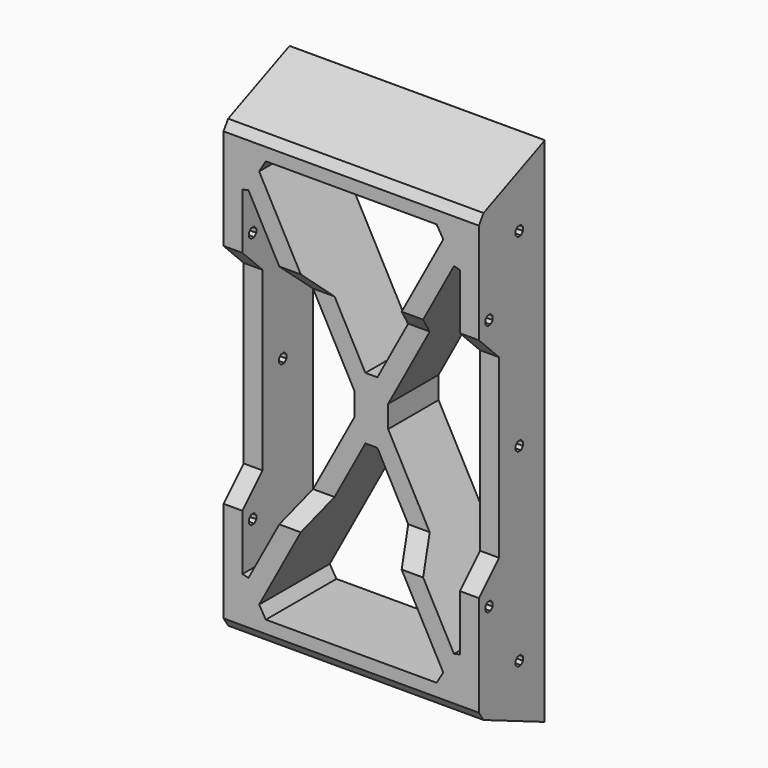
from build123d import *

# Parameters (mm, degrees)
PAD_DEPTH       = 40.5
POCKET_DEPTH    = 14.001
CHAMFER_SIZE    = 2
POCKET001_DEPTH = 3
POCKET002_DEPTH = 3
POCKET003_DEPTH = 40.501
CHAMFER001_SIZE = 1


with BuildPart() as part:
    # Sketch → Pad (new body)
    with BuildSketch(Plane.YZ):
        Polygon((10, 9), (10, 91), (-4, 85), (-4, 15), align=None)
    extrude(amount=PAD_DEPTH)

    # Sketch001 (on Face1 of Pad) → Pocket (cut, through all)
    with BuildSketch(Plane(origin=(0, -4, 0), x_dir=(0, 0, -1), z_dir=(0, -1, 0))):
        Polygon((-78.838843, 37.5), (-21.161157, 37.5), (-50, 21.954061), align=None)
        Polygon((-82, 35.795939), (-53.161157, 20.25), (-82, 4.704061), align=None)
        Polygon((-21.161157, 3), (-78.838843, 3), (-50, 18.545939), align=None)
        Polygon((-46.838843, 20.25), (-18, 35.795939), (-18, 4.704061), align=None)
    extrude(amount=-POCKET_DEPTH, mode=Mode.SUBTRACT)

    # Chamfer
    chamfer_edges = [part.edges().sort_by_distance(p)[0] for p in [
        (3, 3, 78.838843),
        (18.545939, 3, 50),
        (35.795939, 3, 18),
        (20.25, 3, 46.838843),
        (37.5, 3, 78.838843),
        (4.704061, 3, 18),
        (37.5, 3, 21.161157),
        (21.954061, 3, 50),
        (4.704061, 3, 82),
        (20.25, 3, 53.161157),
        (35.795939, 3, 82),
        (3, 3, 21.161157),
    ]]
    chamfer(chamfer_edges, length=CHAMFER_SIZE)

    # Sketch002 (on Face10 of Chamfer) → Pocket001 (cut)
    with BuildSketch(Plane.YZ.offset(40.5)):
        Polygon((3.693853, 80.739104), (3.260896, 80.306147), (3.260896, 79.693853), (3.693853, 79.260896), (4.306147, 79.260896), (4.739104, 79.693853), (4.739104, 80.306147), (4.306147, 80.739104), align=None)
        Polygon((3.693853, 50.739104), (3.260896, 50.306147), (3.260896, 49.693853), (3.693853, 49.260896), (4.306147, 49.260896), (4.739104, 49.693853), (4.739104, 50.306147), (4.306147, 50.739104), align=None)
        Polygon((3.693853, 20.739104), (3.260896, 20.306147), (3.260896, 19.693853), (3.693853, 19.260896), (4.306147, 19.260896), (4.739104, 19.693853), (4.739104, 20.306147), (4.306147, 20.739104), align=None)
        Polygon((-1.693853, 69.260896), (-1.260896, 69.693853), (-1.260896, 70.306147), (-1.693853, 70.739104), (-2.306147, 70.739104), (-2.739104, 70.306147), (-2.739104, 69.693853), (-2.306147, 69.260896), align=None)
        Polygon((-1.693853, 29.260896), (-1.260896, 29.693853), (-1.260896, 30.306147), (-1.693853, 30.739104), (-2.306147, 30.739104), (-2.739104, 30.306147), (-2.739104, 29.693853), (-2.306147, 29.260896), align=None)
    extrude(amount=-POCKET001_DEPTH, mode=Mode.SUBTRACT)

    # Sketch003 (on Face9 of Pocket001) → Pocket002 (cut)
    with BuildSketch(Plane.YZ):
        Polygon((3.693853, 80.739104), (3.260896, 80.306147), (3.260896, 79.693853), (3.693853, 79.260896), (4.306147, 79.260896), (4.739104, 79.693853), (4.739104, 80.306147), (4.306147, 80.739104), align=None)
        Polygon((3.693853, 50.739104), (3.260896, 50.306147), (3.260896, 49.693853), (3.693853, 49.260896), (4.306147, 49.260896), (4.739104, 49.693853), (4.739104, 50.306147), (4.306147, 50.739104), align=None)
        Polygon((3.693853, 20.739104), (3.260896, 20.306147), (3.260896, 19.693853), (3.693853, 19.260896), (4.306147, 19.260896), (4.739104, 19.693853), (4.739104, 20.306147), (4.306147, 20.739104), align=None)
        Polygon((-1.693853, 69.260896), (-1.260896, 69.693853), (-1.260896, 70.306147), (-1.693853, 70.739104), (-2.306147, 70.739104), (-2.739104, 70.306147), (-2.739104, 69.693853), (-2.306147, 69.260896), align=None)
        Polygon((-1.693853, 29.260896), (-1.260896, 29.693853), (-1.260896, 30.306147), (-1.693853, 30.739104), (-2.306147, 30.739104), (-2.739104, 30.306147), (-2.739104, 29.693853), (-2.306147, 29.260896), align=None)
    extrude(amount=POCKET002_DEPTH, mode=Mode.SUBTRACT)

    # Sketch004 → Pocket003 (cut, through all)
    with BuildSketch(Plane(origin=(0, 0, 0), x_dir=(0, 1, 0), z_dir=(-1, 0, 0))):
        Polygon((-4, -32), (0, -36), (0, -64), (-4, -68), align=None)
    extrude(amount=-POCKET003_DEPTH, mode=Mode.SUBTRACT)

    # Chamfer001
    chamfer001_edges = [part.edges().sort_by_distance(p)[0] for p in [
        (20.25, 10, 91),
        (20.25, 10, 9),
        (0, 10, 50),
        (40.5, 10, 50),
        (20.25, -4, 85),
        (20.25, -4, 15),
    ]]
    chamfer(chamfer001_edges, length=CHAMFER001_SIZE)


solid = part.part
